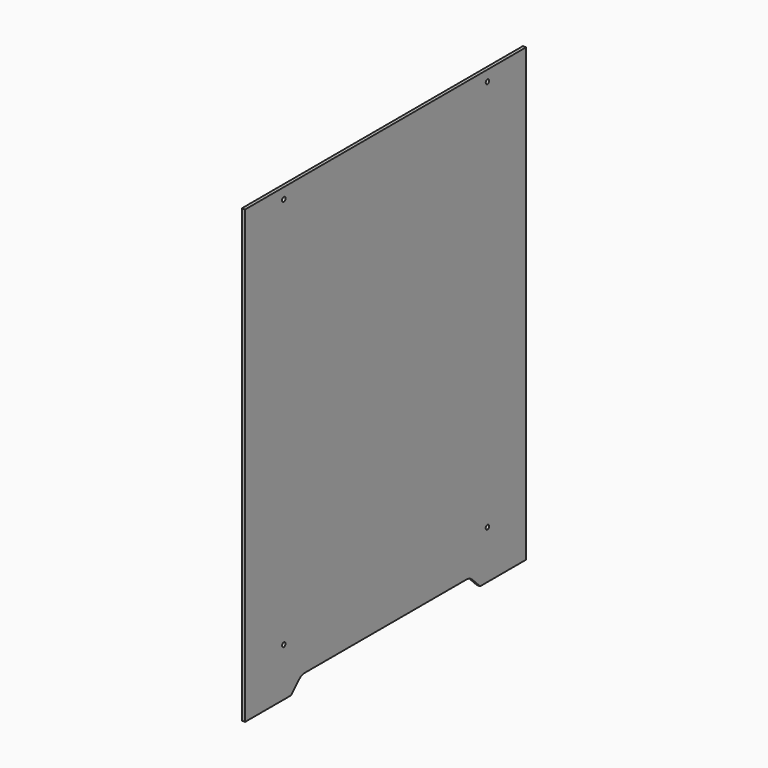
from build123d import *

# Parameters (mm, degrees)
SKETCH_W        = 327
SKETCH_H        = 420
PAD_DEPTH       = 3
SKETCH001_R     = 2
POCKET_DEPTH    = 3.001
POCKET001_DEPTH = 3.001


with BuildPart() as part:
    # Sketch → Pad (new body)
    with BuildSketch(Plane.YZ):
        with Locations((0, -17.5)):
            Rectangle(SKETCH_W, SKETCH_H)
    extrude(amount=PAD_DEPTH)

    # Sketch001 (on Face6 of Pad) → Pocket (cut, through all)
    with BuildSketch(Plane.YZ.offset(3)):
        with Locations((-118.5, 182.5)):
            Circle(SKETCH001_R)
        with Locations((118.5, 182.5)):
            Circle(SKETCH001_R)
        with Locations((-118.5, -182.5)):
            Circle(SKETCH001_R)
        with Locations((118.5, -182.5)):
            Circle(SKETCH001_R)
    extrude(amount=-POCKET_DEPTH, mode=Mode.SUBTRACT)

    # Sketch002 (on Face5 of Pocket) → Pocket001 (cut, through all)
    with BuildSketch(Plane.YZ.offset(3)):
        with BuildLine():
            Line((-110, -227.5), (110, -227.5))
            Line((110, -227.5), (100.928932, -218.428932))
            ThreePointArc((100.928932, -218.428932), (97.684699, -216.261205), (93.857864, -215.5))
            Line((93.857864, -215.5), (-93.857864, -215.5))
            ThreePointArc((-93.857864, -215.5), (-97.684699, -216.261205), (-100.928932, -218.428932))
            Line((-100.928932, -218.428932), (-110, -227.5))
        make_face()
    extrude(amount=-POCKET001_DEPTH, mode=Mode.SUBTRACT)


solid = part.part
